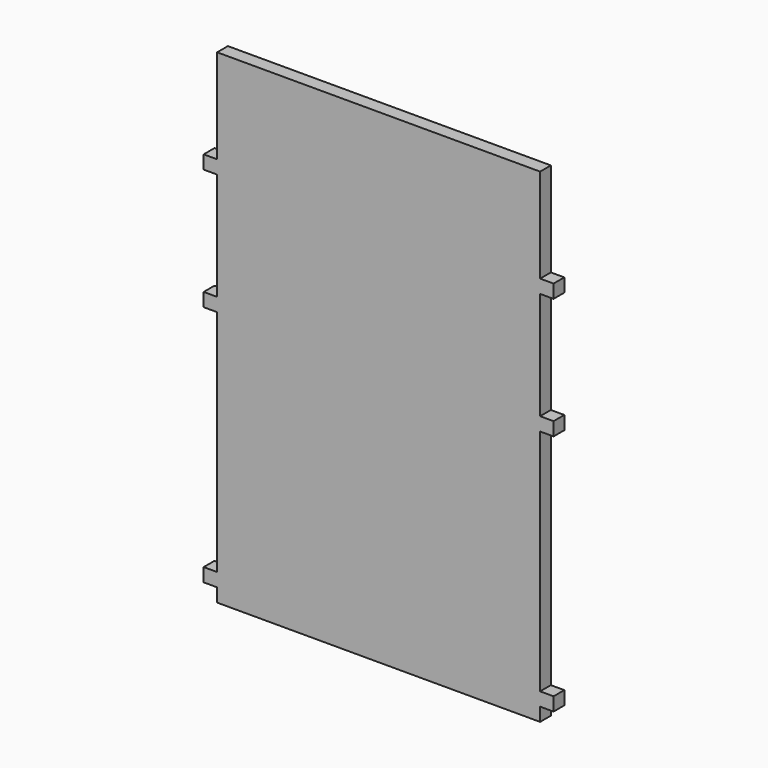
from build123d import *

# Parameters (mm, degrees)
F0_W     = 12.7
F0_H     = 12.7
F1_DEPTH = 12.7


with BuildPart() as f1:
    # F0 (on Front) → F1 (new body)
    with BuildSketch(Plane.XZ):
        Polygon((152.4, 139.7), (152.4, 228.6), (-152.4, 228.6), (-152.4, 139.7), (-152.4, 127), (-152.4, 25.4), (-152.4, 12.7), (-152.4, -203.2), (-152.4, -215.9), (-152.4, -228.6), (152.4, -228.6), (152.4, -215.9), (152.4, -203.2), (152.4, 12.7), (152.4, 25.4), (152.4, 127), align=None)
        with Locations((-158.75, 133.35)):
            Rectangle(F0_W, F0_H)
        with Locations((-158.75, 19.05)):
            Rectangle(F0_W, F0_H)
        with Locations((-158.75, -209.55)):
            Rectangle(F0_W, F0_H)
        with Locations((158.75, -209.55)):
            Rectangle(F0_W, F0_H)
        with Locations((158.75, 19.05)):
            Rectangle(F0_W, F0_H)
        with Locations((158.75, 133.35)):
            Rectangle(F0_W, F0_H)
    extrude(amount=F1_DEPTH)


solid = f1.part
